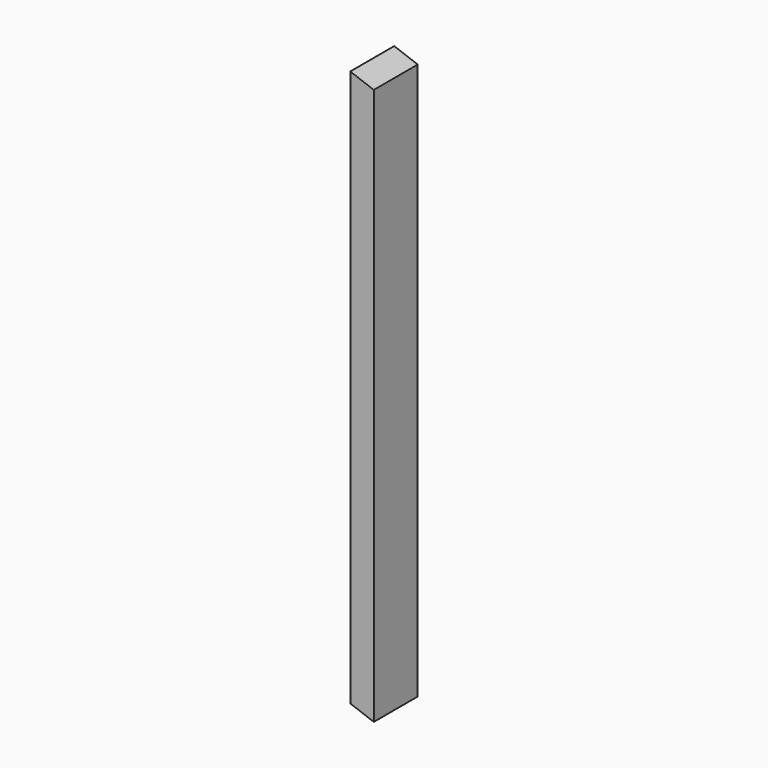
from build123d import *

# Parameters (mm, degrees)
F0_W     = 38.1
F0_H     = 914.4
F1_DEPTH = 88.9
F3_DEPTH = 88.9
F5_DEPTH = 88.9


with BuildPart() as f1:
    # F0 (on Front) → F1 (new body)
    with BuildSketch(Plane.XZ):
        with Locations((-19.05, 457.2)):
            Rectangle(F0_W, F0_H)
    extrude(amount=F1_DEPTH)

    # F2 (on face) → F3 (cut)
    with BuildSketch(Plane.XZ.offset(88.9)):
        Polygon((0, 914.4), (-38.1, 914.4), (0, 900.532734), align=None)
    extrude(amount=-F3_DEPTH, mode=Mode.SUBTRACT)

    # F4 (on face) → F5 (cut)
    with BuildSketch(Plane.XZ.offset(88.9)):
        Polygon((-38.1, 0), (0, 0), (-38.1, 13.867266), align=None)
    extrude(amount=-F5_DEPTH, mode=Mode.SUBTRACT)


solid = f1.part
